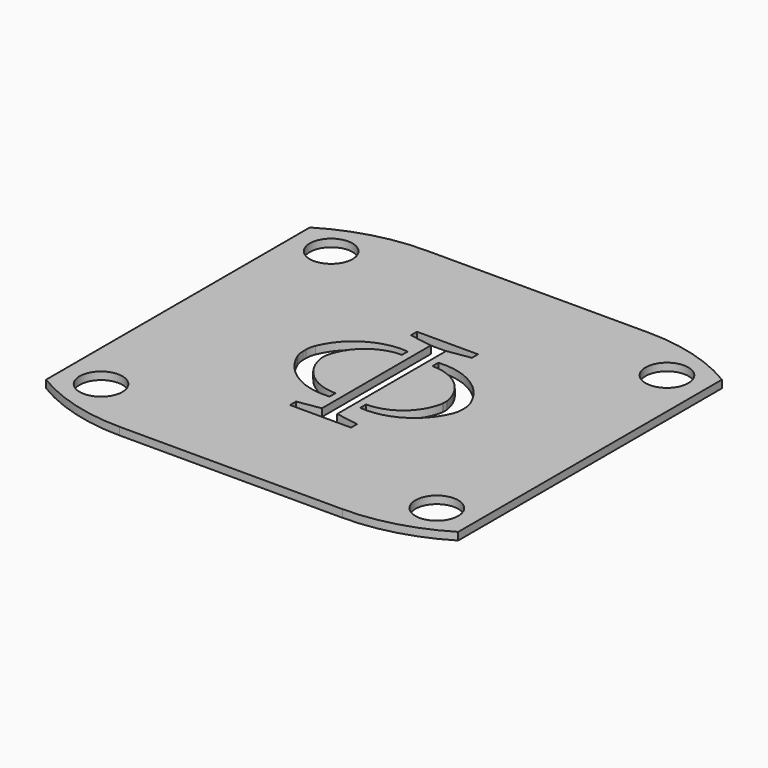
from build123d import *

# Parameters (mm, degrees)
F0_R     = 2.2225
F1_DEPTH = 0.79375
F3_DEPTH = 25.4


with BuildPart() as f1:
    # F0 (on Top) → F1 (new body)
    with BuildSketch(Plane.XY):
        with BuildLine():
            Line((-21.43125, 17.145), (-21.43125, 0))
            Line((-21.43125, 0), (-21.43125, -17.145))
            ThreePointArc((-21.43125, -17.145), (-16.694311, -19.189796), (-11.5824, -19.888478))
            Line((-11.5824, -19.888478), (0, -19.888478))
            Line((0, -19.888478), (11.5824, -19.888478))
            ThreePointArc((11.5824, -19.888478), (16.694311, -19.189796), (21.43125, -17.145))
            Line((21.43125, -17.145), (21.43125, 0))
            Line((21.43125, 0), (21.43125, 17.145))
            ThreePointArc((21.43125, 17.145), (16.694311, 19.189796), (11.5824, 19.888478))
            Line((11.5824, 19.888478), (0, 19.888478))
            Line((0, 19.888478), (-11.5824, 19.888478))
            ThreePointArc((-11.5824, 19.888478), (-16.694311, 19.189796), (-21.43125, 17.145))
        make_face()
        with Locations((-17.4625, -14.9606)):
            Circle(F0_R, mode=Mode.SUBTRACT)
        with Locations((17.4625, -14.9606)):
            Circle(F0_R, mode=Mode.SUBTRACT)
        with Locations((-17.4625, 14.9606)):
            Circle(F0_R, mode=Mode.SUBTRACT)
        with Locations((17.4625, 14.9606)):
            Circle(F0_R, mode=Mode.SUBTRACT)
    extrude(amount=F1_DEPTH)

    # F2 (on face) → F3 (cut)
    with BuildSketch(Plane.XY.offset(0.79375)):
        with BuildLine():
            ThreePointArc((-6.339255, -0.342829), (-6.347311, -0.260575), (-6.35, -0.177972))
            Line((-6.35, -0.177972), (-6.35, 0))
            Line((-6.35, 0), (-6.35, 0.177972))
            ThreePointArc((-6.35, 0.177972), (-6.347311, 0.260575), (-6.339255, 0.342829))
            ThreePointArc((-6.339255, 0.342829), (-4.685441, 3.193539), (-1.5875, 4.318))
            Line((-1.5875, 4.318), (-1.5875, 5.08))
            ThreePointArc((-1.5875, 5.08), (-5.474372, 4.192311), (-8.065938, 1.162533))
            ThreePointArc((-8.065938, 1.162533), (-8.207286, 0.690934), (-8.255, 0.200925))
            Line((-8.255, 0.200925), (-8.255, 0))
            Line((-8.255, 0), (-8.255, -0.200925))
            ThreePointArc((-8.255, -0.200925), (-8.207286, -0.690934), (-8.065938, -1.162533))
            ThreePointArc((-8.065938, -1.162533), (-5.474372, -4.192311), (-1.5875, -5.08))
            Line((-1.5875, -5.08), (-1.5875, -4.318))
            ThreePointArc((-1.5875, -4.318), (-4.685441, -3.193539), (-6.339255, -0.342829))
        make_face()
        Polygon((3.175, 8.255), (0, 8.255), (-3.175, 8.255), (-3.175, 7.46125), (-0.79375, 7.08025), (-0.79375, 0), (-0.79375, -7.08025), (-3.175, -7.46125), (-3.175, -8.255), (0, -8.255), (3.175, -8.255), (3.175, -7.46125), (0.79375, -7.08025), (0.79375, 0), (0.79375, 7.08025), (3.175, 7.46125), align=None)
        with BuildLine():
            Line((6.35, 0.177972), (6.35, 0))
            Line((6.35, 0), (6.35, -0.177972))
            ThreePointArc((6.35, -0.177972), (6.347311, -0.260575), (6.339255, -0.342829))
            ThreePointArc((6.339255, -0.342829), (4.685441, -3.193539), (1.5875, -4.318))
            Line((1.5875, -4.318), (1.5875, -5.08))
            ThreePointArc((1.5875, -5.08), (5.474372, -4.192311), (8.065938, -1.162533))
            ThreePointArc((8.065938, -1.162533), (8.207286, -0.690934), (8.255, -0.200925))
            Line((8.255, -0.200925), (8.255, 0))
            Line((8.255, 0), (8.255, 0.200925))
            ThreePointArc((8.255, 0.200925), (8.207286, 0.690934), (8.065938, 1.162533))
            ThreePointArc((8.065938, 1.162533), (5.474372, 4.192311), (1.5875, 5.08))
            Line((1.5875, 5.08), (1.5875, 4.318))
            ThreePointArc((1.5875, 4.318), (4.685441, 3.193539), (6.339255, 0.342829))
            ThreePointArc((6.339255, 0.342829), (6.347311, 0.260575), (6.35, 0.177972))
        make_face()
    extrude(amount=-F3_DEPTH, mode=Mode.SUBTRACT)


solid = f1.part
